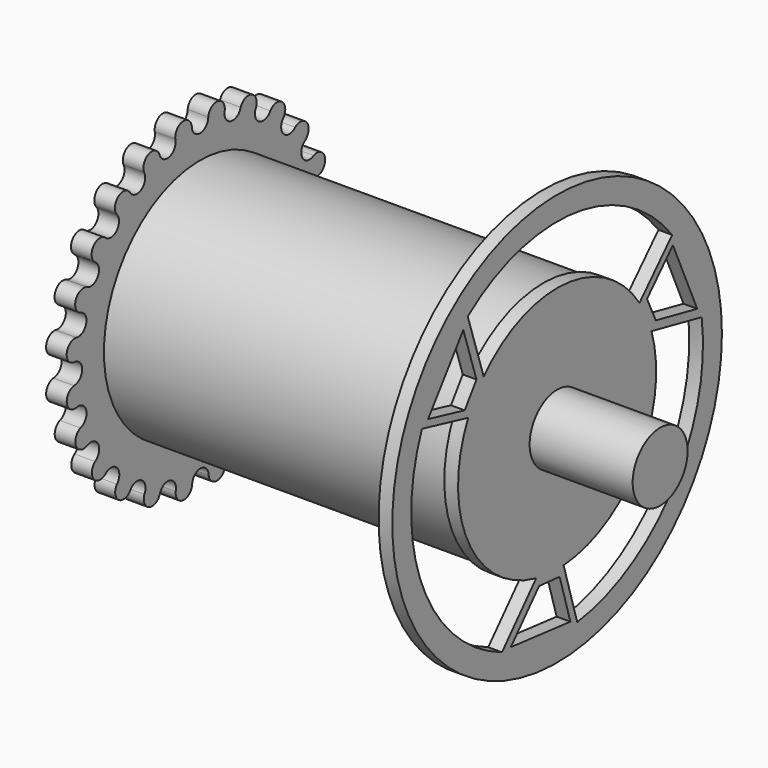
from build123d import *

# Parameters (mm, degrees)
F0_R     = 17.494719
F0_R_2   = 11.064049
F1_DEPTH = 50
F2_R     = 11
F3_DEPTH = 3
F4_R     = 30
F5_DEPTH = 2
F6_R     = 5
F7_DEPTH = 15


with BuildPart() as f1:
    # F0 (on Right) → F1 (new body)
    with BuildSketch(Plane.YZ):
        Circle(F0_R)
        Circle(F0_R_2, mode=Mode.SUBTRACT)
    extrude(amount=F1_DEPTH)

    # F2 (on face) → F3 (join)
    with BuildSketch(Plane(origin=(0, 0, 0), x_dir=(0, -1, 0), z_dir=(-1, 0, 0))):
        with BuildLine():
            ThreePointArc((1.5, 22.449944), (0, 20.949944), (-1.5, 22.449944))
            ThreePointArc((-1.5, 22.449944), (-3.194092, 23.758331), (-4.502479, 22.064239))
            ThreePointArc((-4.502479, 22.064239), (-5.563139, 20.227122), (-7.400257, 21.287782))
            ThreePointArc((-7.400257, 21.287782), (-9.37526, 22.113124), (-10.200601, 20.138121))
            ThreePointArc((-10.200601, 20.138121), (-10.749639, 18.089083), (-12.798677, 18.638121))
            ThreePointArc((-12.798677, 18.638121), (-14.919998, 18.924172), (-15.206048, 16.802852))
            ThreePointArc((-15.206048, 16.802852), (-15.206048, 14.681531), (-17.327369, 14.681531))
            ThreePointArc((-17.327369, 14.681531), (-19.450442, 14.408797), (-19.177708, 12.285723))
            ThreePointArc((-19.177708, 12.285723), (-18.62867, 10.236685), (-20.677708, 9.687647))
            ThreePointArc((-20.677708, 9.687647), (-22.65785, 8.874714), (-21.844917, 6.894571))
            ThreePointArc((-21.844917, 6.894571), (-20.784257, 5.057454), (-22.621374, 3.996794))
            ThreePointArc((-22.621374, 3.996794), (-24.323643, 2.699062), (-23.025911, 0.996794))
            ThreePointArc((-23.025911, 0.996794), (-21.525911, -0.503206), (-23.025911, -2.003206))
            ThreePointArc((-23.025911, -2.003206), (-24.334298, -3.697298), (-22.640206, -5.005685))
            ThreePointArc((-22.640206, -5.005685), (-20.803089, -6.066346), (-21.863749, -7.903463))
            ThreePointArc((-21.863749, -7.903463), (-22.689091, -9.878466), (-20.714088, -10.703807))
            ThreePointArc((-20.714088, -10.703807), (-18.66505, -11.252845), (-19.214088, -13.301884))
            ThreePointArc((-19.214088, -13.301884), (-19.500139, -15.423204), (-17.378818, -15.709255))
            ThreePointArc((-17.378818, -15.709255), (-15.257498, -15.709255), (-15.257498, -17.830575))
            ThreePointArc((-15.257498, -17.830575), (-14.984764, -19.953648), (-12.86169, -19.680914))
            ThreePointArc((-12.86169, -19.680914), (-10.812652, -19.131876), (-10.263614, -21.180914))
            ThreePointArc((-10.263614, -21.180914), (-9.450681, -23.161056), (-7.470538, -22.348123))
            ThreePointArc((-7.470538, -22.348123), (-5.633421, -21.287463), (-4.572761, -23.124581))
            ThreePointArc((-4.572761, -23.124581), (-3.275029, -24.826849), (-1.572761, -23.529117))
            ThreePointArc((-1.572761, -23.529117), (-0.072761, -22.029117), (1.427239, -23.529117))
            ThreePointArc((1.427239, -23.529117), (3.121331, -24.837504), (4.429718, -23.143412))
            ThreePointArc((4.429718, -23.143412), (5.490379, -21.306295), (7.327496, -22.366955))
            ThreePointArc((7.327496, -22.366955), (9.302499, -23.192297), (10.12784, -21.217294))
            ThreePointArc((10.12784, -21.217294), (10.676879, -19.168256), (12.725917, -19.717294))
            ThreePointArc((12.725917, -19.717294), (14.847237, -20.003345), (15.133288, -17.882025))
            ThreePointArc((15.133288, -17.882025), (15.133288, -15.760704), (17.254608, -15.760704))
            ThreePointArc((17.254608, -15.760704), (19.377681, -15.48797), (19.104947, -13.364896))
            ThreePointArc((19.104947, -13.364896), (18.555909, -11.315858), (20.604947, -10.76682))
            ThreePointArc((20.604947, -10.76682), (22.58509, -9.953887), (21.772156, -7.973744))
            ThreePointArc((21.772156, -7.973744), (20.711496, -6.136627), (22.548614, -5.075967))
            ThreePointArc((22.548614, -5.075967), (24.250882, -3.778235), (22.95315, -2.075967))
            ThreePointArc((22.95315, -2.075967), (21.45315, -0.575967), (22.95315, 0.924033))
            ThreePointArc((22.95315, 0.924033), (24.261538, 2.618125), (22.567445, 3.926512))
            ThreePointArc((22.567445, 3.926512), (20.730328, 4.987173), (21.790988, 6.82429))
            ThreePointArc((21.790988, 6.82429), (22.61633, 8.799293), (20.641327, 9.624634))
            ThreePointArc((20.641327, 9.624634), (18.592289, 10.173672), (19.141327, 12.222711))
            ThreePointArc((19.141327, 12.222711), (19.427378, 14.344031), (17.306058, 14.630081))
            ThreePointArc((17.306058, 14.630081), (15.184737, 14.630081), (15.184737, 16.751402))
            ThreePointArc((15.184737, 16.751402), (14.912003, 18.874475), (12.788929, 18.601741))
            ThreePointArc((12.788929, 18.601741), (10.739891, 18.052703), (10.190853, 20.101741))
            ThreePointArc((10.190853, 20.101741), (9.37792, 22.081883), (7.397777, 21.26895))
            ThreePointArc((7.397777, 21.26895), (5.56066, 20.20829), (4.5, 22.045407))
            ThreePointArc((4.5, 22.045407), (3.202268, 23.747676), (1.5, 22.449944))
        make_face()
        Circle(F2_R, mode=Mode.SUBTRACT)
    extrude(amount=F3_DEPTH)


with BuildPart() as f5:
    # F4 (on face) → F5 (new body)
    with BuildSketch(Plane.YZ.offset(50)):
        Circle(F4_R)
        Polygon((0.454943, -19.161549), (2.413796, -25.729371), (-8.426255, -24.584382), (-3.28191, -18.843091), align=None, mode=Mode.SUBTRACT)
        with BuildLine():
            Line((-24.609332, 9.980364), (-16.176261, 7.972445))
            ThreePointArc((-16.176261, 7.972445), (-16.238336, -7.845237), (-3.808136, -17.627519))
            Line((-3.808136, -17.627519), (-10.041666, -24.584382))
            ThreePointArc((-10.041666, -24.584382), (-24.47148, -10.313756), (-24.609332, 9.980364))
        make_face(mode=Mode.SUBTRACT)
        with BuildLine():
            ThreePointArc((26.311532, 3.595853), (21.167714, -16.036045), (3.661417, -26.302488))
            Line((3.661417, -26.302488), (1.183791, -17.995276))
            ThreePointArc((1.183791, -17.995276), (14.913343, -10.140193), (17.169947, 5.515817))
            Line((17.169947, 5.515817), (26.311532, 3.595853))
        make_face(mode=Mode.SUBTRACT)
        Polygon((-23.489187, 10.774277), (-17.077572, 19.589541), (-14.677641, 12.263763), (-16.82186, 9.186782), align=None, mode=Mode.SUBTRACT)
        Polygon((21.075391, 14.955095), (25.503826, 4.99484), (17.959551, 6.579329), (16.366917, 9.974767), align=None, mode=Mode.SUBTRACT)
        with BuildLine():
            Line((20.947914, 16.322124), (14.992471, 10.022831))
            ThreePointArc((14.992471, 10.022831), (1.324994, 17.98543), (-13.361811, 12.111702))
            Line((-13.361811, 12.111702), (-16.269866, 20.988528))
            ThreePointArc((-16.269866, 20.988528), (3.303765, 26.349801), (20.947914, 16.322124))
        make_face(mode=Mode.SUBTRACT)
    extrude(amount=F5_DEPTH)

    # F6 (on face) → F7 (join)
    with BuildSketch(Plane.YZ.offset(52)):
        Circle(F6_R)
    extrude(amount=F7_DEPTH)


solid = Compound([f1.part, f5.part])
